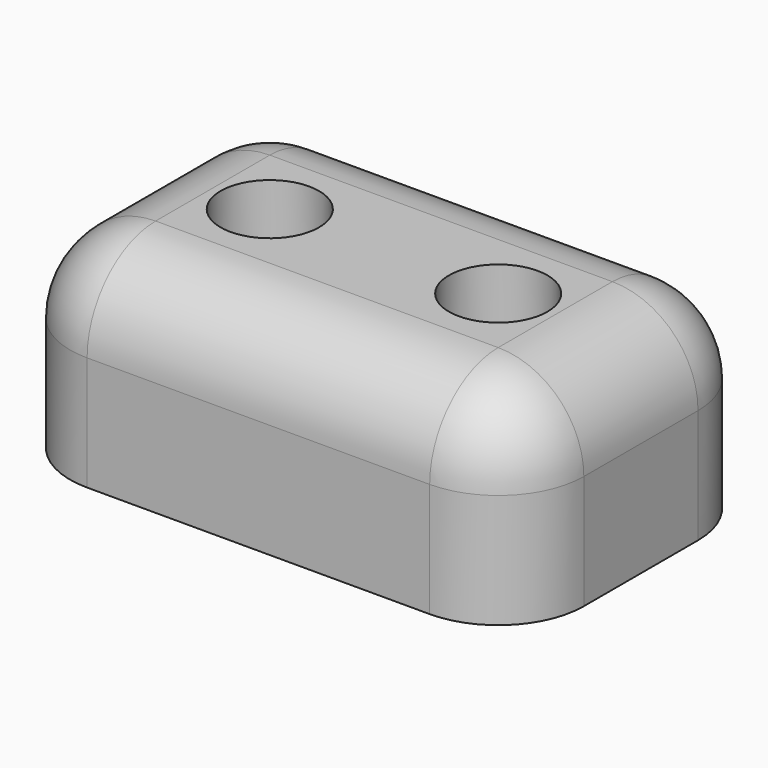
from build123d import *

# Parameters (mm, degrees)
F0_W     = 18
F0_H     = 11
F0_R     = 3
F1_DEPTH = 5
F2_W     = 18
F2_H     = 11
F3_DEPTH = 2
F4_R     = 3
F5_R     = 1.725
F6_DEPTH = 25


with BuildPart() as f1:
    # F0 (on Top) → F1 (new body)
    with BuildSketch(Plane.XY):
        Rectangle(F0_W, F0_H)
        with Locations((-4, 0)):
            Circle(F0_R, mode=Mode.SUBTRACT)
        with Locations((4, 0)):
            Circle(F0_R, mode=Mode.SUBTRACT)
    extrude(amount=F1_DEPTH)

    # F2 (on face) → F3 (join)
    with BuildSketch(Plane.XY.offset(5)):
        Rectangle(F2_W, F2_H)
    extrude(amount=F3_DEPTH)

    # F4
    f4_edges = [f1.edges().sort_by_distance(p)[0] for p in [
        (-9, 5.5, 3.5),
        (-9, -5.5, 3.5),
        (9, -5.5, 3.5),
        (9, 5.5, 3.5),
        (0, 5.5, 7),
        (0, -5.5, 7),
        (-9, 0, 7),
        (9, 0, 7),
    ]]
    fillet(f4_edges, radius=F4_R)

    # F5 (on face) → F6 (cut)
    with BuildSketch(Plane(origin=(0, 0, 5), x_dir=(1, 0, 0), z_dir=(0, 0, -1))):
        with Locations((-4, 0)):
            Circle(F5_R)
        with Locations((4, 0)):
            Circle(F5_R)
    extrude(amount=-F6_DEPTH, mode=Mode.SUBTRACT)


solid = f1.part
